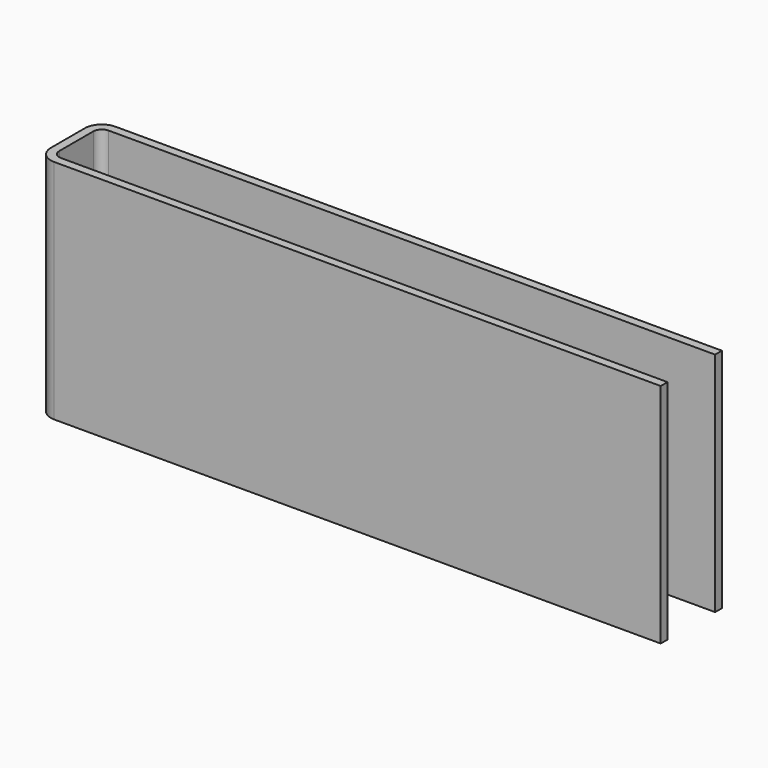
from build123d import *

# Parameters (mm, degrees)
F0_W     = 3
F0_H     = 21
F1_DEPTH = 80
F2_R     = 3
F3_R     = 6


with BuildPart() as f1:
    # F0 (on Top) → F1 (new body)
    with BuildSketch(Plane.XY):
        Polygon((-110, 1.5), (-110, -1.5), (-107, -1.5), (110, -1.5), (110, 1.5), align=None)
        with Locations((-108.5, -12)):
            Rectangle(F0_W, F0_H)
        Polygon((-107, -22.5), (-110, -22.5), (-110, -25.5), (110, -25.5), (110, -22.5), align=None)
    extrude(amount=F1_DEPTH)

    # F2
    f2_edges = [f1.edges().sort_by_distance(p)[0] for p in [
        (-107, -1.5, 40),
        (-107, -22.5, 40),
    ]]
    fillet(f2_edges, radius=F2_R)

    # F3
    f3_edges = [f1.edges().sort_by_distance(p)[0] for p in [
        (-110, -25.5, 40),
        (-110, 1.5, 40),
    ]]
    fillet(f3_edges, radius=F3_R)


solid = f1.part
